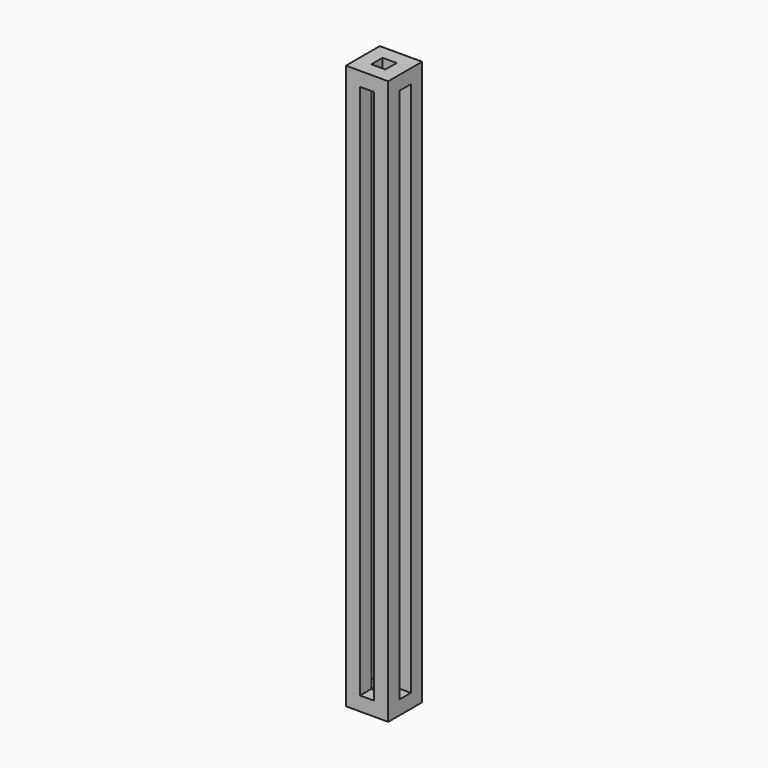
from build123d import *

# Parameters (mm, degrees)
F0_W     = 11.43
F0_H     = 11.43
F0_W_2   = 3.81
F0_H_2   = 3.81
F1_DEPTH = 152.4
F2_W     = 3.81
F2_H     = 144.78
F3_DEPTH = 25.4
F4_W     = 3.81
F4_H     = 144.78
F5_DEPTH = 25.4


with BuildPart() as f1:
    # F0 (on Top) → F1 (new body)
    with BuildSketch(Plane.XY):
        with Locations((-54.323498, -23.599323)):
            Rectangle(F0_W, F0_H)
        with Locations((-54.323498, -23.599323)):
            Rectangle(F0_W_2, F0_H_2, mode=Mode.SUBTRACT)
    extrude(amount=F1_DEPTH)

    # F2 (on face) → F3 (cut)
    with BuildSketch(Plane(origin=(-60.038498, 0, 0), x_dir=(0, -1, 0), z_dir=(-1, 0, 0))):
        with Locations((23.599323, 76.2)):
            Rectangle(F2_W, F2_H)
    extrude(amount=-F3_DEPTH, mode=Mode.SUBTRACT)

    # F4 (on face) → F5 (cut)
    with BuildSketch(Plane(origin=(0, -17.884323, 0), x_dir=(-1, 0, 0), z_dir=(0, 1, 0))):
        with Locations((54.323498, 76.2)):
            Rectangle(F4_W, F4_H)
    extrude(amount=-F5_DEPTH, mode=Mode.SUBTRACT)


solid = f1.part
